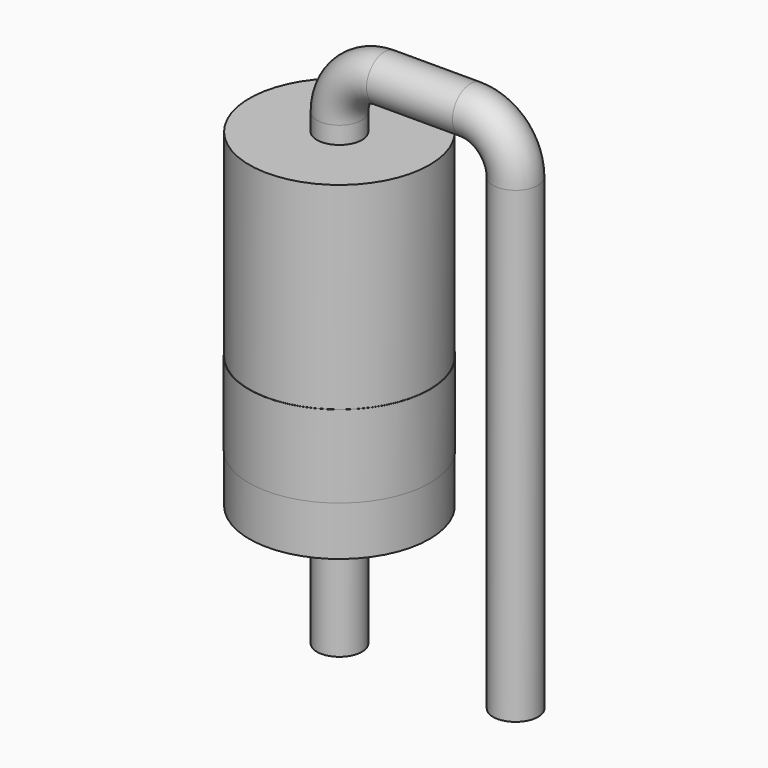
from build123d import *

# Parameters (mm, degrees)
SKETCH001_R = 0.65
SKETCH002_W = 2.6
SKETCH002_H = 9.5
SKETCH003_W = 2.61
SKETCH003_H = 2.375


with BuildPart() as sweep_body:
    # Sweep: sweep along a path in Sketch
    with BuildLine(Plane.XZ) as sweep_path:
        Line((0, -3), (0, 10.5))
        ThreePointArc((0, 10.5), (0.380761, 11.419239), (1.3, 11.8))
        Line((1.3, 11.8), (3.78, 11.8))
        ThreePointArc((3.78, 11.8), (4.699239, 11.419239), (5.08, 10.5))
        Line((5.08, 10.5), (5.08, -3))
    # Sketch001 → Sweep (sweep)
    with BuildSketch(Plane.XY):
        Circle(SKETCH001_R)
    sweep(path=sweep_path.line)


with BuildPart() as revolution:
    # Sketch002 → Revolution (revolve)
    with BuildSketch(Plane.XZ):
        with Locations((1.3, 5.25)):
            Rectangle(SKETCH002_W, SKETCH002_H)
    revolve(axis=Axis((0, 0, 0.5), (0, 0, 1)))


with BuildPart() as revolution001:
    # Sketch003 → Revolution001 (revolve)
    with BuildSketch(Plane.XZ):
        with Locations((1.305, 3.1125)):
            Rectangle(SKETCH003_W, SKETCH003_H)
    revolve(axis=Axis((0, 0, 0), (0, 0, 1)))


solid = Compound([sweep_body.part, revolution.part, revolution001.part])
